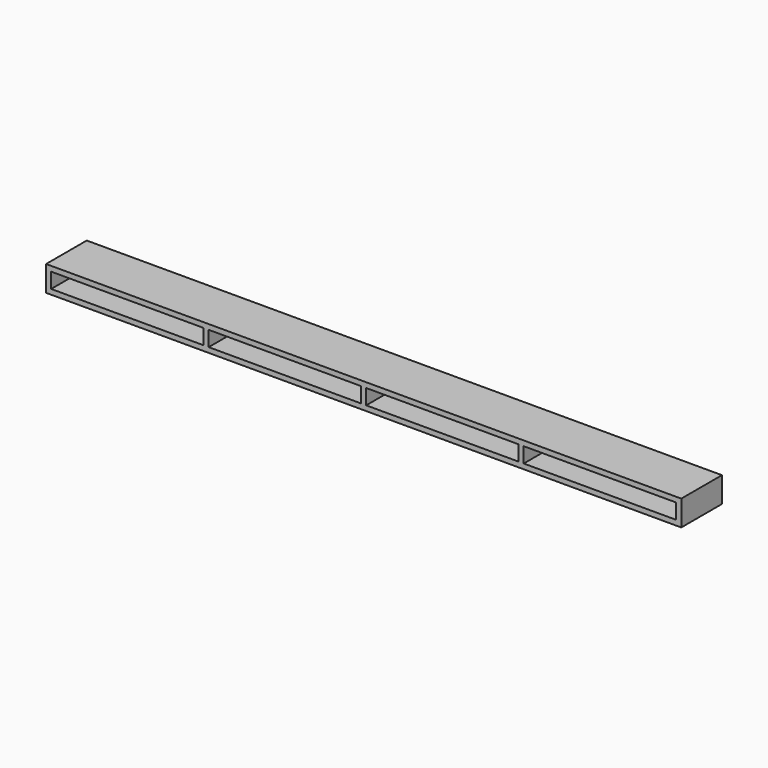
from build123d import *

# Parameters (mm, degrees)
SKETCH_W            = 250
SKETCH_H            = 20
PAD_DEPTH           = 10
SKETCH001_W         = 60
SKETCH001_H         = 6
POCKET_DEPTH        = 20.001
LINEARPATTERN_COUNT = 4
LINEARPATTERN_PITCH = 62


with BuildPart() as part:
    # Sketch → Pad (new body)
    with BuildSketch(Plane.XY):
        Rectangle(SKETCH_W, SKETCH_H)
    extrude(amount=PAD_DEPTH)

    # Sketch001 (on Face1 of Pad) → Pocket (cut, through all)
    with BuildSketch(Plane.XZ.offset(10)):
        with Locations((-93, 5)):
            Rectangle(SKETCH001_W, SKETCH001_H)
    pocket = extrude(amount=-POCKET_DEPTH, mode=Mode.SUBTRACT)

    # LinearPattern: Pocket ×4
    with Locations(*[(i * LINEARPATTERN_PITCH, 0, 0) for i in range(1, LINEARPATTERN_COUNT)]):
        add(pocket, mode=Mode.SUBTRACT)


solid = part.part
